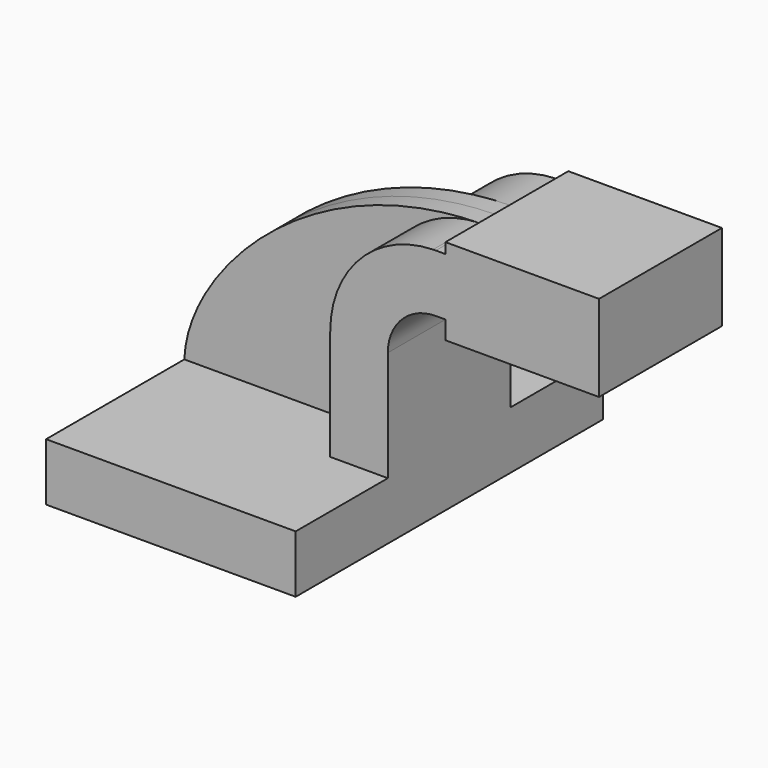
from build123d import *

# Parameters (mm, degrees)
F1_DEPTH = 63.5
F0_W     = 27.5913768614
F0_H     = 19.05
F2_DEPTH = 25.4
F3_DEPTH = 6.35


with BuildPart() as f1:
    # F0 (on Front) → F1 (new body, symmetric)
    with BuildSketch(Plane.XZ):
        Polygon((22.225, 9.525), (-41.275, 9.525), (-41.275, -9.525), (41.275, -9.525), (41.275, 9.525), align=None)
    extrude(amount=F1_DEPTH, both=True)

    # F0 (on Front) → F2 (join, symmetric)
    with BuildSketch(Plane.XZ):
        with BuildLine():
            Line((22.225, 46.0502), (22.225, 9.525))
            Line((22.225, 9.525), (41.275, 9.525))
            Line((41.275, 9.525), (41.275, 46.0502))
            ThreePointArc((41.275, 46.0502), (45.9246798487, 57.2755201513), (57.15, 61.9252))
            Line((57.15, 61.9252), (60.325, 61.9252))
            Line((60.325, 61.9252), (60.325, 80.9752))
            Line((60.325, 80.9752), (57.15, 80.9752))
            add(Edge.make_bspline(
                [(56.2404700013, 80.96335483), (56.5431683561, 80.9684989137), (56.846346144, 80.9724501926), (57.15, 80.9752)],
                knots=[120.9786542661, 120.9786542661, 120.9786542661, 120.9786542661, 121.6248811101, 121.6248811101, 121.6248811101, 121.6248811101], degree=3))
            ThreePointArc((56.2404700013, 80.96335483), (32.1347950218, 70.4222156101), (22.225, 46.0502))
        make_face()
        with Locations((74.1206884307, 71.4502)):
            Rectangle(F0_W, F0_H)
        Polygon((60.325, 84.455), (60.325, 80.9752), (87.9163768614, 80.9752), (87.9163768614, 61.9252), (60.325, 61.9252), (60.325, 55.88), (111.125, 55.88), (111.125, 84.455), align=None)
    extrude(amount=F2_DEPTH, both=True)

    # F0 (on Front) → F3 (join, symmetric)
    with BuildSketch(Plane.XZ):
        with BuildLine():
            add(Edge.make_bspline(
                [(-41.275, 9.525), (-40.2919004024, 37.2334202637), (-0.4269989303, 80.0003426359), (56.2404700013, 80.96335483)],
                knots=[0, 0, 0, 0, 120.9786542661, 120.9786542661, 120.9786542661, 120.9786542661], degree=3))
            Line((-41.275, 9.525), (22.225, 9.525))
            Line((22.225, 9.525), (22.225, 46.0502))
            ThreePointArc((22.225, 46.0502), (32.1347950218, 70.4222156101), (56.2404700013, 80.96335483))
        make_face()
    extrude(amount=F3_DEPTH, both=True)


solid = f1.part
